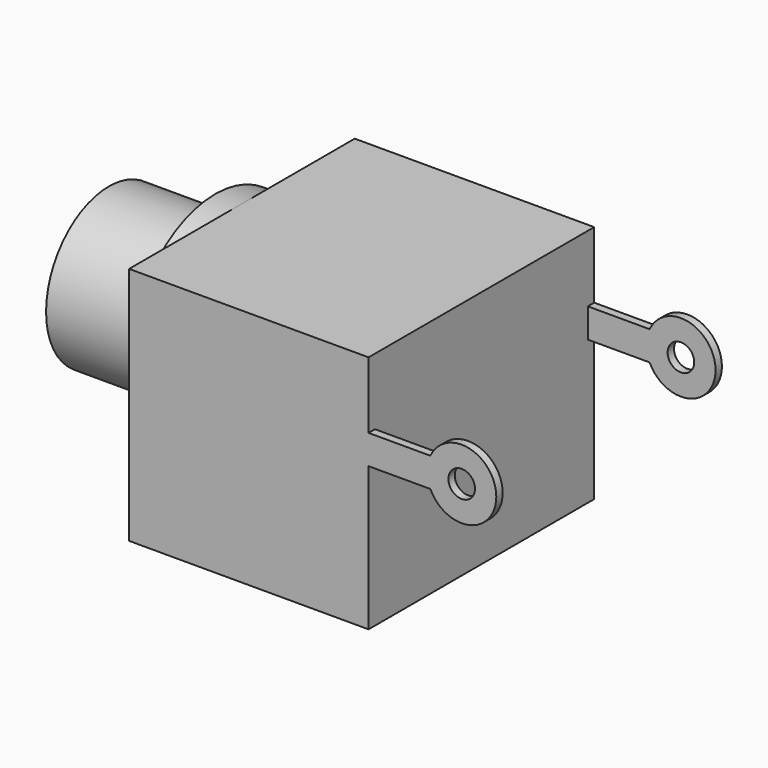
from build123d import *

# Parameters (mm, degrees)
F0_W      = 9
F0_H      = 10.6
F1_DEPTH  = 9
F3_DEPTH  = 1
F4_R      = 2.95
F5_DEPTH  = 4
F6_R      = 0.5
F7_DEPTH  = 0.3
F8_R      = 0.5
F9_DEPTH  = 0.3
F10_R     = 1.8
F11_DEPTH = 10


with BuildPart() as f1:
    # F0 (on Top) → F1 (new body)
    with BuildSketch(Plane.XY):
        Rectangle(F0_W, F0_H)
    extrude(amount=F1_DEPTH)

    # F2 (on face) → F3 (join)
    with BuildSketch(Plane(origin=(-4.5, 0, 0), x_dir=(0, -1, 0), z_dir=(-1, 0, 0))):
        with BuildLine():
            Line((3, 2.3542486889), (3, 7.6457513111))
            ThreePointArc((3, 7.6457513111), (0, 9), (-3, 7.6457513111))
            Line((-3, 7.6457513111), (-3, 2.3542486889))
            ThreePointArc((-3, 2.3542486889), (0, 1), (3, 2.3542486889))
        make_face()
    extrude(amount=F3_DEPTH)

    # F4 (on face) → F5 (join)
    with BuildSketch(Plane(origin=(-5.5, 0, 0), x_dir=(0, -1, 0), z_dir=(-1, 0, 0))):
        with Locations((0, 5)):
            Circle(F4_R)
    extrude(amount=F5_DEPTH)

    # F6 (on face) → F7 (join)
    with BuildSketch(Plane(origin=(0, 5.3, 0), x_dir=(-1, 0, 0), z_dir=(0, 1, 0))):
        with BuildLine():
            Line((-4.5, 5.4), (-4.5, 6.5))
            Line((-4.5, 6.5), (-6.8220781011, 6.5))
            ThreePointArc((-6.8220781011, 6.5), (-9.3, 5.95), (-6.8220781011, 5.4))
            Line((-6.8220781011, 5.4), (-4.5, 5.4))
        make_face()
        with Locations((-8, 5.95)):
            Circle(F6_R, mode=Mode.SUBTRACT)
    extrude(amount=-F7_DEPTH)

    # F8 (on face) → F9 (join)
    with BuildSketch(Plane.XZ.offset(5.3)):
        with BuildLine():
            Line((4.5, 6.5), (4.5, 5.4))
            Line((4.5, 5.4), (6.8220781011, 5.4))
            ThreePointArc((6.8220781011, 5.4), (9.3, 5.95), (6.8220781011, 6.5))
            Line((6.8220781011, 6.5), (4.5, 6.5))
        make_face()
        with Locations((8, 5.95)):
            Circle(F8_R, mode=Mode.SUBTRACT)
    extrude(amount=-F9_DEPTH)

    # F10 (on face) → F11 (cut)
    with BuildSketch(Plane(origin=(-9.5, 0, 0), x_dir=(0, -1, 0), z_dir=(-1, 0, 0))):
        with Locations((0, 5)):
            Circle(F10_R)
    extrude(amount=-F11_DEPTH, mode=Mode.SUBTRACT)


solid = f1.part
